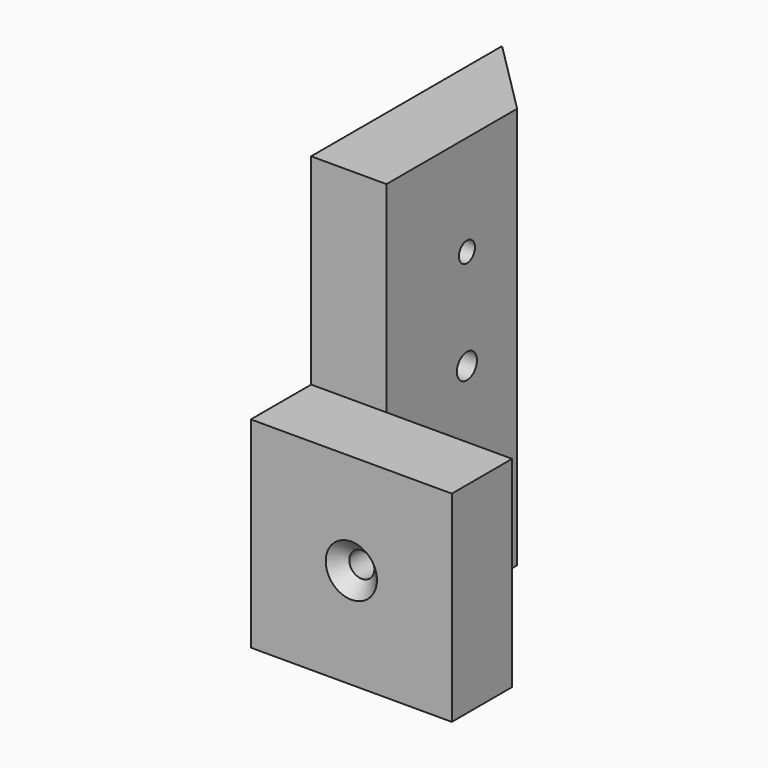
from build123d import *

# Parameters (mm, degrees)
SKETCH001_R      = 2.5
SKETCH001_R_2    = 2
EXTRUDE001_DEPTH = 15
EXTRUDE_DEPTH    = 80
CHAMFER_SIZE     = 2.6
FACE003_R        = 2.5
EXTRUDE003_DEPTH = 15
SKETCH002_W      = 40
SKETCH002_H      = 40
EXTRUDE002_DEPTH = 15
CHAMFER001_SIZE  = 2.6


with BuildPart() as extrude001:
    # Sketch001 (on Face1 of Extrude) → Extrude001 (new body)
    with BuildSketch(Plane(origin=(0, 0, 0), x_dir=(0, -1, 0), z_dir=(-1, 0, 0))):
        with Locations((-20, 40)):
            Circle(SKETCH001_R)
        with Locations((-20, 60)):
            Circle(SKETCH001_R_2)
        with Locations((-20, 20)):
            Circle(SKETCH001_R_2)
    extrude(amount=-EXTRUDE001_DEPTH)


with BuildPart() as wedge:
    # Face → Extrude (new body)
    with BuildSketch(Plane(origin=(7.03125, 20.234375, 0), x_dir=(0, 1, 0), z_dir=(0, 0, 1))):
        Polygon((27.265625, 7.03125), (-20.234375, 7.03125), (-20.234375, -7.96875), (12.265625, -7.96875), align=None)
    extrude(amount=EXTRUDE_DEPTH)

    # Cut: cut Extrude001
    add(extrude001.part, mode=Mode.SUBTRACT)

    # Chamfer
    chamfer_edges = [wedge.edges().sort_by_distance(p)[0] for p in [
        (0, 22, 60),
        (0, 22.5, 40),
        (0, 22, 20),
    ]]
    chamfer(chamfer_edges, length=CHAMFER_SIZE)


with BuildPart() as extrude003:
    # Face003 → Extrude003 (new body)
    with BuildSketch(Plane(origin=(20, -15, 20), x_dir=(1, 0, 0), z_dir=(0, 1, 0))):
        Circle(FACE003_R)
    extrude(amount=EXTRUDE003_DEPTH)


with BuildPart() as spacer:
    # Sketch002 → Extrude002 (new body)
    with BuildSketch(Plane.XZ):
        with Locations((20, 20)):
            Rectangle(SKETCH002_W, SKETCH002_H)
    extrude(amount=EXTRUDE002_DEPTH)

    # Cut001: cut Extrude003
    add(extrude003.part, mode=Mode.SUBTRACT)

    # Chamfer001
    chamfer001_edges = [spacer.edges().sort_by_distance(p)[0] for p in [
        (17.5, -15, 20),
    ]]
    chamfer(chamfer001_edges, length=CHAMFER001_SIZE)


solid = Compound([wedge.part, spacer.part])
